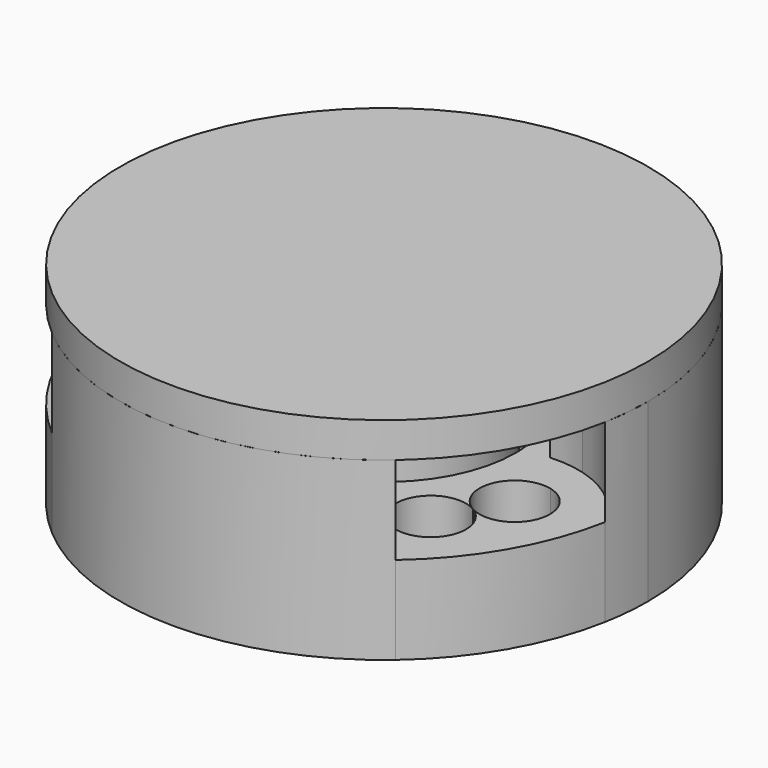
from build123d import *

# Parameters (mm, degrees)
F1_DEPTH = 10
F2_DEPTH = 5
F3_R     = 15
F4_DEPTH = 2
F5_R     = 6
F6_DEPTH = 12
F5_R_2   = 7
F7_DEPTH = 4
F5_R_3   = 9
F8_DEPTH = 5
F9_DEPTH = 5
F10_R    = 2


with BuildPart() as f1:
    # F0 (on Top) → F1 (new body)
    with BuildSketch(Plane.XY):
        with BuildLine():
            ThreePointArc((-9.7536528831, -11.3958876546), (0, -15), (9.7536528831, -11.3958876546))
            ThreePointArc((9.7536528831, -11.3958876546), (7.2867471777, -11.0359800819), (5.1790688964, -9.7044961418))
            ThreePointArc((5.1790688964, -9.7044961418), (0, -11), (-5.1790688964, -9.7044961418))
            ThreePointArc((-5.1790688964, -9.7044961418), (-7.2867471777, -11.0359800819), (-9.7536528831, -11.3958876546))
        make_face()
        with BuildLine():
            ThreePointArc((-10.9938746379, 0.3670428387), (-13.2008126954, -0.7925181259), (-14.7459546491, -2.7489673491))
            ThreePointArc((-14.7459546491, -2.7489673491), (-12.9903810568, -7.5), (-9.7536528831, -11.3958876546))
            ThreePointArc((-9.7536528831, -11.3958876546), (-7.2867471777, -11.0359800819), (-5.1790688964, -9.7044961418))
            ThreePointArc((-5.1790688964, -9.7044961418), (-6.0857340456, -9.1631785493), (-6.936316569, -8.5374183718))
            ThreePointArc((-6.936316569, -8.5374183718), (-9.8888600881, -8.4386282154), (-9.5220659552, -5.5072915252))
            ThreePointArc((-9.5220659552, -5.5072915252), (-9.5262794416, -5.5), (-9.5304873445, -5.4927052511))
            ThreePointArc((-9.5304873445, -5.4927052511), (-12.2524964517, -4.344689943), (-10.8617794772, -1.7383171715))
            ThreePointArc((-10.8617794772, -1.7383171715), (-10.9784124259, -0.6888110095), (-10.9938746379, 0.3670428387))
        make_face()
        with BuildLine():
            ThreePointArc((9.7536528831, -11.3958876546), (12.9903810568, -7.5), (14.7459546491, -2.7489673491))
            ThreePointArc((14.7459546491, -2.7489673491), (13.2008126954, -0.7925181259), (10.9938746379, 0.3670428387))
            ThreePointArc((10.9938746379, 0.3670428387), (10.9984685529, 0.1835469732), (11, 0))
            ThreePointArc((11, 0), (10.9653904228, -0.8719018726), (10.8617794772, -1.7383171715))
            ThreePointArc((10.8617794772, -1.7383171715), (11.946826754, -2.4491992864), (12.3674969976, -3.6762761056))
            ThreePointArc((12.3674969976, -3.6762761056), (11.4459172992, -5.3606186044), (9.5304873445, -5.4927052511))
            ThreePointArc((9.5304873445, -5.4927052511), (9.5262794416, -5.5), (9.5220659552, -5.5072915252))
            ThreePointArc((9.5220659552, -5.5072915252), (10.1436076241, -6.220904479), (10.3674969976, -7.1403777208))
            ThreePointArc((10.3674969976, -7.1403777208), (9.121698278, -8.9927222969), (6.936316569, -8.5374183718))
            ThreePointArc((6.936316569, -8.5374183718), (6.0857340456, -9.1631785493), (5.1790688964, -9.7044961418))
            ThreePointArc((5.1790688964, -9.7044961418), (7.2867471777, -11.0359800819), (9.7536528831, -11.3958876546))
        make_face()
        with BuildLine():
            ThreePointArc((14.7459546491, -2.7489673491), (14.9363536336, -1.3803405854), (15, 0))
            ThreePointArc((15, 0), (12.2450913939, 8.6635868296), (4.992301766, 14.1448550037))
            ThreePointArc((4.992301766, 14.1448550037), (5.7425521589, 12.5553587185), (6, 10.8166538264))
            ThreePointArc((6, 10.8166538264), (5.9535214138, 10.0712795745), (5.8148057416, 9.3374533031))
            ThreePointArc((5.8148057416, 9.3374533031), (9.5262794416, 5.5), (10.9938746379, 0.3670428387))
            ThreePointArc((10.9938746379, 0.3670428387), (13.2008126954, -0.7925181259), (14.7459546491, -2.7489673491))
        make_face()
        with BuildLine():
            ThreePointArc((6, 10.8166538264), (5.7425521589, 12.5553587185), (4.992301766, 14.1448550037))
            ThreePointArc((4.992301766, 14.1448550037), (0, 15), (-4.992301766, 14.1448550037))
            ThreePointArc((-4.992301766, 14.1448550037), (-5.9140655177, 11.8284982078), (-5.8148057416, 9.3374533031))
            ThreePointArc((-5.8148057416, 9.3374533031), (-4.8926783803, 9.8519895588), (-3.9254629082, 10.2757355433))
            ThreePointArc((-3.9254629082, 10.2757355433), (-2.3636363636, 12.7833181585), (-0.0084213893, 10.9999967764))
            ThreePointArc((-0.0084213893, 10.9999967764), (0, 11), (0.0084213893, 10.9999967764))
            ThreePointArc((0.0084213893, 10.9999967764), (2.0917681278, 12.8145473698), (4, 10.8166538264))
            ThreePointArc((4, 10.8166538264), (3.9812780997, 10.5436390067), (3.9254629082, 10.2757355433))
            ThreePointArc((3.9254629082, 10.2757355433), (4.8926783803, 9.8519895588), (5.8148057416, 9.3374533031))
            ThreePointArc((5.8148057416, 9.3374533031), (5.9535214138, 10.0712795745), (6, 10.8166538264))
        make_face()
        with BuildLine():
            ThreePointArc((-5.8148057416, 9.3374533031), (-5.9140655177, 11.8284982078), (-4.992301766, 14.1448550037))
            ThreePointArc((-4.992301766, 14.1448550037), (-12.9903810568, 7.5), (-14.7459546491, -2.7489673491))
            ThreePointArc((-14.7459546491, -2.7489673491), (-13.2008126954, -0.7925181259), (-10.9938746379, 0.3670428387))
            ThreePointArc((-10.9938746379, 0.3670428387), (-9.5262794416, 5.5), (-5.8148057416, 9.3374533031))
        make_face()
        with BuildLine():
            ThreePointArc((-5.1790688964, -9.7044961418), (0, -11), (5.1790688964, -9.7044961418))
            ThreePointArc((5.1790688964, -9.7044961418), (4.1080412943, -8.2959082031), (3.494472399, -6.6361632479))
            ThreePointArc((3.494472399, -6.6361632479), (0, -7.5), (-3.494472399, -6.6361632479))
            ThreePointArc((-3.494472399, -6.6361632479), (-4.1080412943, -8.2959082031), (-5.1790688964, -9.7044961418))
        make_face()
        with BuildLine():
            ThreePointArc((7.4943221558, 0.2917797535), (9.2384878985, 0.5902859808), (10.9938746379, 0.3670428387))
            ThreePointArc((10.9938746379, 0.3670428387), (9.5262794416, 5.5), (5.8148057416, 9.3374533031))
            ThreePointArc((5.8148057416, 9.3374533031), (5.1304466041, 7.7056222222), (3.9998497568, 6.3443834943))
            ThreePointArc((3.9998497568, 6.3443834943), (6.4951905284, 3.75), (7.4943221558, 0.2917797535))
        make_face()
        with BuildLine():
            ThreePointArc((-3.9998497568, 6.3443834943), (-5.1304466041, 7.7056222222), (-5.8148057416, 9.3374533031))
            ThreePointArc((-5.8148057416, 9.3374533031), (-9.5262794416, 5.5), (-10.9938746379, 0.3670428387))
            ThreePointArc((-10.9938746379, 0.3670428387), (-9.2384878985, 0.5902859808), (-7.4943221558, 0.2917797535))
            ThreePointArc((-7.4943221558, 0.2917797535), (-6.4951905284, 3.75), (-3.9998497568, 6.3443834943))
        make_face()
        with BuildLine():
            ThreePointArc((-3.9254629082, 10.2757355433), (-4.8926783803, 9.8519895588), (-5.8148057416, 9.3374533031))
            ThreePointArc((-5.8148057416, 9.3374533031), (-5.1304466041, 7.7056222222), (-3.9998497568, 6.3443834943))
            ThreePointArc((-3.9998497568, 6.3443834943), (0, 7.5), (3.9998497568, 6.3443834943))
            ThreePointArc((3.9998497568, 6.3443834943), (5.1304466041, 7.7056222222), (5.8148057416, 9.3374533031))
            ThreePointArc((5.8148057416, 9.3374533031), (4.8926783803, 9.8519895588), (3.9254629082, 10.2757355433))
            ThreePointArc((3.9254629082, 10.2757355433), (1.7269851803, 8.8353757267), (0, 10.8166538264))
            ThreePointArc((0, 10.8166538264), (-1.7269851803, 8.8353757267), (-3.9254629082, 10.2757355433))
        make_face()
        with BuildLine():
            ThreePointArc((11, 0), (10.9984685529, 0.1835469732), (10.9938746379, 0.3670428387))
            ThreePointArc((10.9938746379, 0.3670428387), (9.2384878985, 0.5902859808), (7.4943221558, 0.2917797535))
            ThreePointArc((7.4943221558, 0.2917797535), (7.4985804046, 0.1459174959), (7.5, 0))
            ThreePointArc((7.5, 0), (6.4210023747, -3.8756584606), (3.494472399, -6.6361632479))
            ThreePointArc((3.494472399, -6.6361632479), (4.1080412943, -8.2959082031), (5.1790688964, -9.7044961418))
            ThreePointArc((5.1790688964, -9.7044961418), (6.0857340456, -9.1631785493), (6.936316569, -8.5374183718))
            ThreePointArc((6.936316569, -8.5374183718), (6.7881672455, -5.9133008959), (9.3674970098, -5.4083269203))
            ThreePointArc((9.3674970098, -5.4083269203), (8.5151524188, -2.9220748318), (10.8617794772, -1.7383171715))
            ThreePointArc((10.8617794772, -1.7383171715), (10.9653904228, -0.8719018726), (11, 0))
        make_face()
        with BuildLine():
            ThreePointArc((-7.4943221558, 0.2917797535), (-9.2384878985, 0.5902859808), (-10.9938746379, 0.3670428387))
            ThreePointArc((-10.9938746379, 0.3670428387), (-10.9784124259, -0.6888110095), (-10.8617794772, -1.7383171715))
            ThreePointArc((-10.8617794772, -1.7383171715), (-9.1404201783, -2.0969463492), (-8.3674969976, -3.6762761056))
            ThreePointArc((-8.3674969976, -3.6762761056), (-8.6354461825, -4.6762760926), (-9.3674969715, -5.4083268981))
            ThreePointArc((-9.3674969715, -5.4083268981), (-7.3674969846, -5.4083269207), (-6.3674969976, -7.1403777208))
            ThreePointArc((-6.3674969976, -7.1403777208), (-6.5151524215, -7.8945790012), (-6.936316569, -8.5374183718))
            ThreePointArc((-6.936316569, -8.5374183718), (-6.0857340456, -9.1631785493), (-5.1790688964, -9.7044961418))
            ThreePointArc((-5.1790688964, -9.7044961418), (-4.1080412943, -8.2959082031), (-3.494472399, -6.6361632479))
            ThreePointArc((-3.494472399, -6.6361632479), (-6.4951905284, -3.75), (-7.4943221558, 0.2917797535))
        make_face()
    extrude(amount=-F1_DEPTH)

    # F0 (on Top) → F2 (cut)
    with BuildSketch(Plane.XY):
        with BuildLine():
            ThreePointArc((-3.9254629082, 10.2757355433), (-4.8926783803, 9.8519895588), (-5.8148057416, 9.3374533031))
            ThreePointArc((-5.8148057416, 9.3374533031), (-5.1304466041, 7.7056222222), (-3.9998497568, 6.3443834943))
            ThreePointArc((-3.9998497568, 6.3443834943), (0, 7.5), (3.9998497568, 6.3443834943))
            ThreePointArc((3.9998497568, 6.3443834943), (5.1304466041, 7.7056222222), (5.8148057416, 9.3374533031))
            ThreePointArc((5.8148057416, 9.3374533031), (4.8926783803, 9.8519895588), (3.9254629082, 10.2757355433))
            ThreePointArc((3.9254629082, 10.2757355433), (1.7269851803, 8.8353757267), (0, 10.8166538264))
            ThreePointArc((0, 10.8166538264), (-1.7269851803, 8.8353757267), (-3.9254629082, 10.2757355433))
        make_face()
        with BuildLine():
            ThreePointArc((6, 10.8166538264), (5.7425521589, 12.5553587185), (4.992301766, 14.1448550037))
            ThreePointArc((4.992301766, 14.1448550037), (0, 15), (-4.992301766, 14.1448550037))
            ThreePointArc((-4.992301766, 14.1448550037), (-5.9140655177, 11.8284982078), (-5.8148057416, 9.3374533031))
            ThreePointArc((-5.8148057416, 9.3374533031), (-4.8926783803, 9.8519895588), (-3.9254629082, 10.2757355433))
            ThreePointArc((-3.9254629082, 10.2757355433), (-2.3636363636, 12.7833181585), (-0.0084213893, 10.9999967764))
            ThreePointArc((-0.0084213893, 10.9999967764), (0, 11), (0.0084213893, 10.9999967764))
            ThreePointArc((0.0084213893, 10.9999967764), (2.0917681278, 12.8145473698), (4, 10.8166538264))
            ThreePointArc((4, 10.8166538264), (3.9812780997, 10.5436390067), (3.9254629082, 10.2757355433))
            ThreePointArc((3.9254629082, 10.2757355433), (4.8926783803, 9.8519895588), (5.8148057416, 9.3374533031))
            ThreePointArc((5.8148057416, 9.3374533031), (5.9535214138, 10.0712795745), (6, 10.8166538264))
        make_face()
        with BuildLine():
            ThreePointArc((-7.4943221558, 0.2917797535), (-9.2384878985, 0.5902859808), (-10.9938746379, 0.3670428387))
            ThreePointArc((-10.9938746379, 0.3670428387), (-10.9784124259, -0.6888110095), (-10.8617794772, -1.7383171715))
            ThreePointArc((-10.8617794772, -1.7383171715), (-9.1404201783, -2.0969463492), (-8.3674969976, -3.6762761056))
            ThreePointArc((-8.3674969976, -3.6762761056), (-8.6354461825, -4.6762760926), (-9.3674969715, -5.4083268981))
            ThreePointArc((-9.3674969715, -5.4083268981), (-7.3674969846, -5.4083269207), (-6.3674969976, -7.1403777208))
            ThreePointArc((-6.3674969976, -7.1403777208), (-6.5151524215, -7.8945790012), (-6.936316569, -8.5374183718))
            ThreePointArc((-6.936316569, -8.5374183718), (-6.0857340456, -9.1631785493), (-5.1790688964, -9.7044961418))
            ThreePointArc((-5.1790688964, -9.7044961418), (-4.1080412943, -8.2959082031), (-3.494472399, -6.6361632479))
            ThreePointArc((-3.494472399, -6.6361632479), (-6.4951905284, -3.75), (-7.4943221558, 0.2917797535))
        make_face()
        with BuildLine():
            ThreePointArc((-10.9938746379, 0.3670428387), (-13.2008126954, -0.7925181259), (-14.7459546491, -2.7489673491))
            ThreePointArc((-14.7459546491, -2.7489673491), (-12.9903810568, -7.5), (-9.7536528831, -11.3958876546))
            ThreePointArc((-9.7536528831, -11.3958876546), (-7.2867471777, -11.0359800819), (-5.1790688964, -9.7044961418))
            ThreePointArc((-5.1790688964, -9.7044961418), (-6.0857340456, -9.1631785493), (-6.936316569, -8.5374183718))
            ThreePointArc((-6.936316569, -8.5374183718), (-9.8888600881, -8.4386282154), (-9.5220659552, -5.5072915252))
            ThreePointArc((-9.5220659552, -5.5072915252), (-9.5262794416, -5.5), (-9.5304873445, -5.4927052511))
            ThreePointArc((-9.5304873445, -5.4927052511), (-12.2524964517, -4.344689943), (-10.8617794772, -1.7383171715))
            ThreePointArc((-10.8617794772, -1.7383171715), (-10.9784124259, -0.6888110095), (-10.9938746379, 0.3670428387))
        make_face()
        with BuildLine():
            ThreePointArc((11, 0), (10.9984685529, 0.1835469732), (10.9938746379, 0.3670428387))
            ThreePointArc((10.9938746379, 0.3670428387), (9.2384878985, 0.5902859808), (7.4943221558, 0.2917797535))
            ThreePointArc((7.4943221558, 0.2917797535), (7.4985804046, 0.1459174959), (7.5, 0))
            ThreePointArc((7.5, 0), (6.4210023747, -3.8756584606), (3.494472399, -6.6361632479))
            ThreePointArc((3.494472399, -6.6361632479), (4.1080412943, -8.2959082031), (5.1790688964, -9.7044961418))
            ThreePointArc((5.1790688964, -9.7044961418), (6.0857340456, -9.1631785493), (6.936316569, -8.5374183718))
            ThreePointArc((6.936316569, -8.5374183718), (6.7881672455, -5.9133008959), (9.3674970098, -5.4083269203))
            ThreePointArc((9.3674970098, -5.4083269203), (8.5151524188, -2.9220748318), (10.8617794772, -1.7383171715))
            ThreePointArc((10.8617794772, -1.7383171715), (10.9653904228, -0.8719018726), (11, 0))
        make_face()
        with BuildLine():
            ThreePointArc((9.7536528831, -11.3958876546), (12.9903810568, -7.5), (14.7459546491, -2.7489673491))
            ThreePointArc((14.7459546491, -2.7489673491), (13.2008126954, -0.7925181259), (10.9938746379, 0.3670428387))
            ThreePointArc((10.9938746379, 0.3670428387), (10.9984685529, 0.1835469732), (11, 0))
            ThreePointArc((11, 0), (10.9653904228, -0.8719018726), (10.8617794772, -1.7383171715))
            ThreePointArc((10.8617794772, -1.7383171715), (11.946826754, -2.4491992864), (12.3674969976, -3.6762761056))
            ThreePointArc((12.3674969976, -3.6762761056), (11.4459172992, -5.3606186044), (9.5304873445, -5.4927052511))
            ThreePointArc((9.5304873445, -5.4927052511), (9.5262794416, -5.5), (9.5220659552, -5.5072915252))
            ThreePointArc((9.5220659552, -5.5072915252), (10.1436076241, -6.220904479), (10.3674969976, -7.1403777208))
            ThreePointArc((10.3674969976, -7.1403777208), (9.121698278, -8.9927222969), (6.936316569, -8.5374183718))
            ThreePointArc((6.936316569, -8.5374183718), (6.0857340456, -9.1631785493), (5.1790688964, -9.7044961418))
            ThreePointArc((5.1790688964, -9.7044961418), (7.2867471777, -11.0359800819), (9.7536528831, -11.3958876546))
        make_face()
    extrude(amount=-F2_DEPTH, mode=Mode.SUBTRACT)

    # F5 (on Top) → F8 (cut)
    with BuildSketch(Plane.XY):
        Circle(F5_R_3)
        Circle(F5_R_2, mode=Mode.SUBTRACT)
    extrude(amount=-F8_DEPTH, mode=Mode.SUBTRACT)


with BuildPart() as f4:
    # F3 (on face) → F4 (new body)
    with BuildSketch(Plane.XY):
        Circle(F3_R)
    extrude(amount=F4_DEPTH)


with BuildPart() as f6:
    # F5 (on Top) → F6 (new body)
    with BuildSketch(Plane.XY):
        Circle(F5_R)
    extrude(amount=-F6_DEPTH)

    # F5 (on Top) → F7 (join)
    with BuildSketch(Plane.XY):
        Circle(F5_R_2)
        Circle(F5_R, mode=Mode.SUBTRACT)
        Circle(F5_R)
    extrude(amount=-F7_DEPTH)


with BuildPart() as f9:
    # F0 (on Top) → F9 (new body)
    with BuildSketch(Plane.XY):
        with BuildLine():
            ThreePointArc((-0.0084213893, 10.9999967764), (-2, 10.8166538264), (-3.9254629082, 10.2757355433))
            ThreePointArc((-3.9254629082, 10.2757355433), (-1.7269851803, 8.8353757267), (0, 10.8166538264))
            ThreePointArc((0, 10.8166538264), (-0.0021064566, 10.9084219542), (-0.0084213893, 10.9999967764))
        make_face()
        with BuildLine():
            ThreePointArc((-0.0084213893, 10.9999967764), (-2.3636363636, 12.7833181585), (-3.9254629082, 10.2757355433))
            ThreePointArc((-3.9254629082, 10.2757355433), (-2, 10.8166538264), (-0.0084213893, 10.9999967764))
        make_face()
    extrude(amount=-F9_DEPTH)

    # F10
    f10_edges = [f9.edges().sort_by_distance(p)[0] for p in [
        (-4, 10.816654, 0),
    ]]
    fillet(f10_edges, radius=F10_R)


with BuildPart() as f9_1:
    # F11: moved
    add(f9.part.moved(Location((0, 0, -2))))


solid = Compound([f1.part, f4.part, f6.part, f9_1.part])
